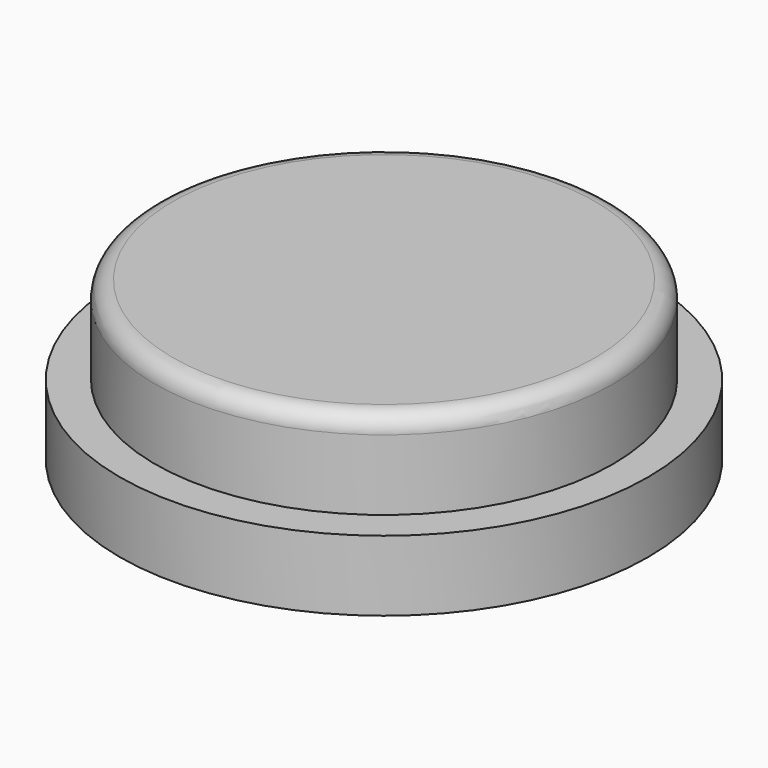
from build123d import *

# Parameters (mm, degrees)
SKETCH_R     = 15
PAD_DEPTH    = 4
SKETCH001_R  = 13
PAD001_DEPTH = 5
FILLET_R     = 1


with BuildPart() as part:
    # Sketch → Pad (new body)
    with BuildSketch(Plane.XY):
        Circle(SKETCH_R)
    extrude(amount=PAD_DEPTH)

    # Sketch001 (on Face3 of Pad) → Pad001 (join)
    with BuildSketch(Plane.XY.offset(4)):
        Circle(SKETCH001_R)
    extrude(amount=PAD001_DEPTH)

    # Fillet
    fillet_edges = [part.edges().sort_by_distance(p)[0] for p in [
        (-13, 0, 9),
    ]]
    fillet(fillet_edges, radius=FILLET_R)


solid = part.part
